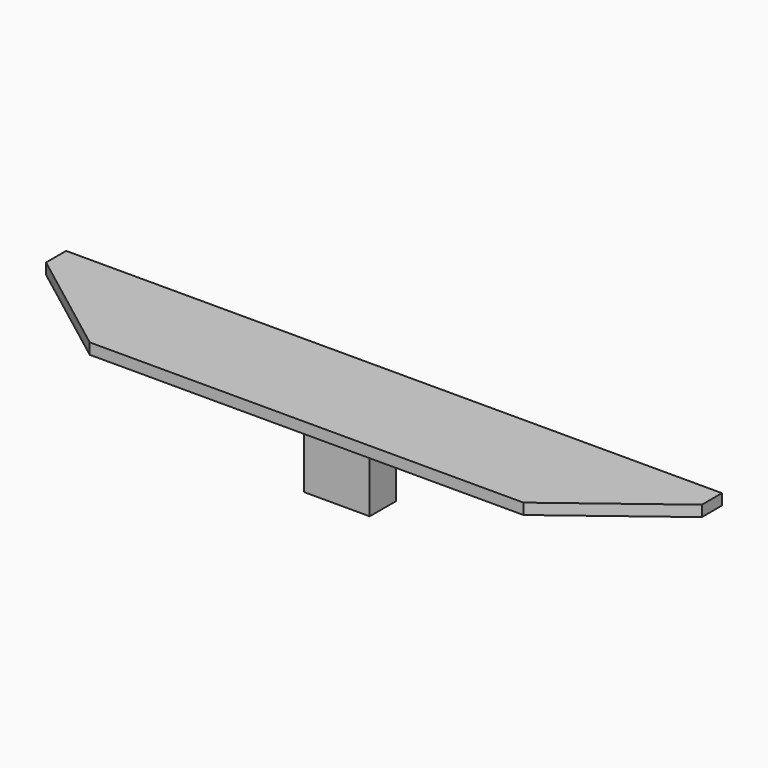
from build123d import *

# Parameters (mm, degrees)
F0_W     = 7.62
F0_H     = 17.78
F1_DEPTH = 7.62
F2_W     = 25.4
F2_H     = 2.54
F3_DEPTH = 76.2
F5_DEPTH = 50.8


with BuildPart() as f1:
    # F0 (on Right) → F1 (new body)
    with BuildSketch(Plane.YZ):
        with Locations((18.735414, -6.280092)):
            Rectangle(F0_W, F0_H)
    extrude(amount=F1_DEPTH)

    # F2 (on Right) → F3 (join)
    with BuildSketch(Plane.YZ):
        with Locations((18.816974, 3.868257)):
            Rectangle(F2_W, F2_H)
    extrude(amount=F3_DEPTH)

    # F4 (on face) → F5 (cut)
    with BuildSketch(Plane.XY.offset(5.138257)):
        Polygon((76.2, 6.116974), (76.2, 25.691286), (50.403856, 6.116974), align=None)
    extrude(amount=-F5_DEPTH, mode=Mode.SUBTRACT)

    # F6: F1 across plane


with BuildPart() as f1_1:
    add(f1.part)
    add(f1.part.mirror(Plane.YZ))


solid = f1_1.part
